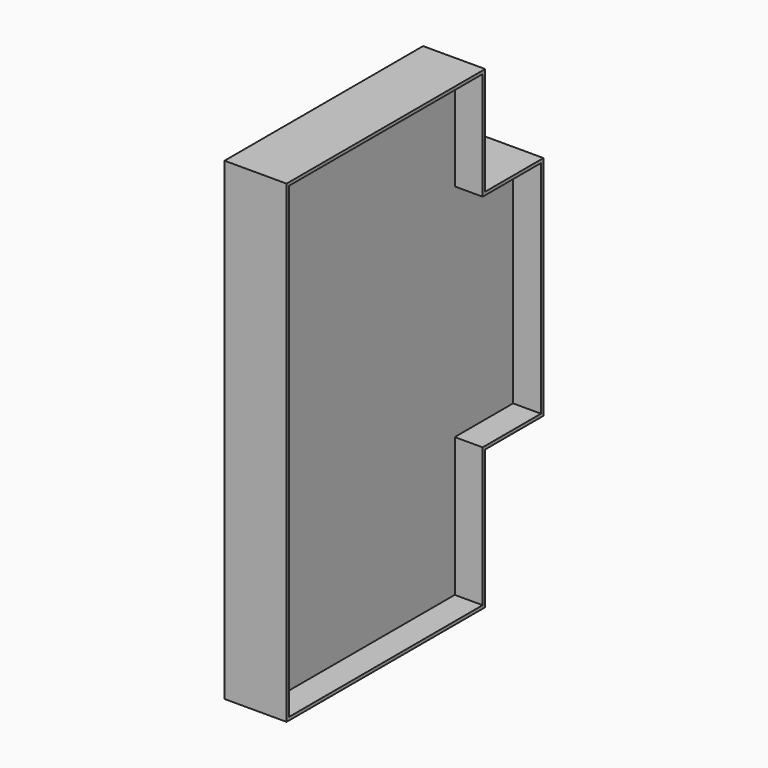
from build123d import *

# Parameters (mm, degrees)
F0_W     = 111.8879971261
F0_H     = 182.8464864036
F0_W_2   = 58.7416736197
F1_DEPTH = 50
F2_T     = -2.54
F3_DEPTH = 25
F4_R     = 48.7363148041
F5_DEPTH = 25
F6_DEPTH = 25


with BuildPart() as f1:
    # F0 (on Right) → F1 (new body)
    with BuildSketch(Plane.YZ):
        Polygon((0, -93.3897359272), (0, 89.4567504763), (111.8879971261, 89.4567504763), (111.8879971261, 176.4833948933), (-88.1120028739, 176.4833948933), (-88.1120028739, -205.3286014106), (111.8879971261, -205.3286014106), (111.8879971261, -93.3897359272), align=None)
        with Locations((55.9439985631, -1.9664927255)):
            Rectangle(F0_W, F0_H)
        with Locations((141.258833936, -1.9664927255)):
            Rectangle(F0_W_2, F0_H)
    extrude(amount=F1_DEPTH)

    # F2
    f2_openings = [f1.faces().sort_by_distance(p)[0] for p in [
        (50, 27.840751, -12.886637),
    ]]
    offset(amount=F2_T, openings=f2_openings, kind=Kind.INTERSECTION)

    # F3 (add): a face of the model
    f3_faces = [f1.faces().sort_by_distance(p)[0] for p in [
        (2.54, 27.6782483044, -12.8718359613),
    ]]
    extrude(f3_faces, amount=F3_DEPTH)

    # F4 (on face) → F5 (join)
    with BuildSketch(Plane.YZ.offset(27.54)):
        Circle(F4_R)
    extrude(amount=F5_DEPTH)

    # F6 (cut): a face of the model
    f6_faces = [f1.faces().sort_by_distance(p)[0] for p in [
        (52.54, 0, 0),
    ]]
    extrude(f6_faces, amount=-F6_DEPTH, mode=Mode.SUBTRACT)


solid = f1.part
